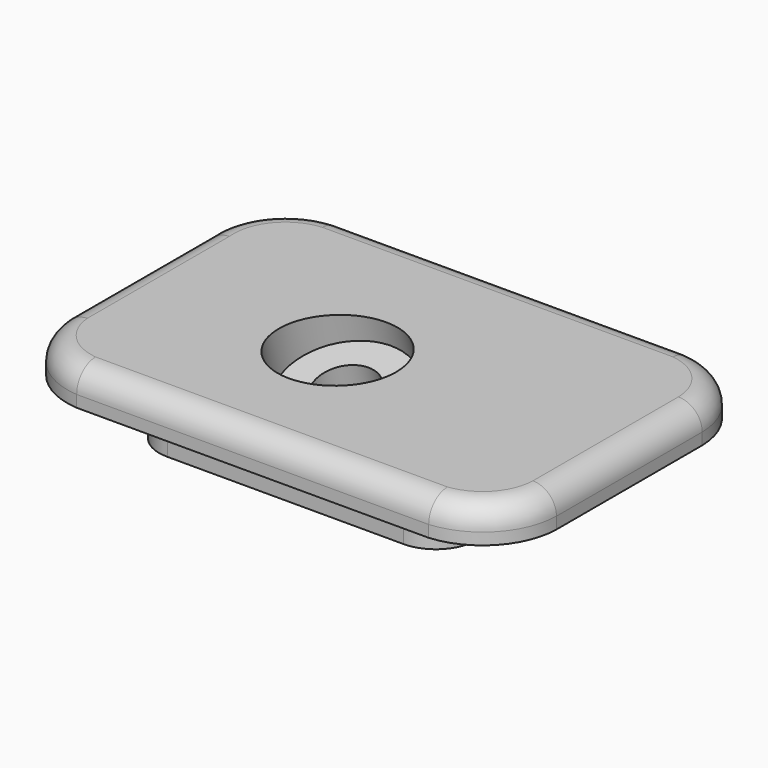
from build123d import *

# Parameters (mm, degrees)
PAD_DEPTH       = 6
PAD001_DEPTH    = 8
FILLET_R        = 4
SKETCH002_R     = 10
POCKET_DEPTH    = 13
SKETCH003_R     = 5
POCKET001_DEPTH = 28


with BuildPart() as part:
    # Sketch → Pad (new body)
    with BuildSketch(Plane.XY):
        with BuildLine():
            ThreePointArc((-41.745088, -16.267645), (-38.019176, -24.312586), (-29.956517, -28))
            Line((30.011514, -28), (-29.956517, -28))
            ThreePointArc((30.011514, -28), (38.300743, -24.027618), (41.782861, -15.520798))
            Line((41.782861, -15.520798), (41.782861, 15.521905))
            ThreePointArc((41.782861, 15.521905), (38.305508, 24.02367), (30.025364, 28))
            Line((-29.988894, 28), (30.025364, 28))
            ThreePointArc((-29.988894, 28), (-38.722289, 23.556252), (-41.745088, 14.235214))
            Line((-41.745088, 14.235214), (-41.745088, -16.267645))
        make_face()
    extrude(amount=PAD_DEPTH)

    # Sketch001 → Pad001 (join)
    with BuildSketch(Plane.XY.offset(-7)):
        with BuildLine():
            Line((0, -21), (-20.122893, -21))
            ThreePointArc((-27, -14.122893), (-24.985742, -18.985742), (-20.122893, -21))
            Line((-27, 0), (-27, -14.122893))
            Line((-27, 0), (-27, 14.122893))
            ThreePointArc((-20.122893, 21), (-24.985742, 18.985742), (-27, 14.122893))
            Line((0, 21), (-20.122893, 21))
            Line((0, 21), (20.122893, 21))
            ThreePointArc((27, 14.122893), (24.985742, 18.985742), (20.122893, 21))
            Line((27, 0), (27, 14.122893))
            Line((27, 0), (27, -14.122893))
            ThreePointArc((20.122893, -21), (24.985742, -18.985742), (27, -14.122893))
            Line((0, -21), (20.122893, -21))
        make_face()
    extrude(amount=PAD001_DEPTH)

    # Fillet
    fillet_edges = [part.edges().sort_by_distance(p)[0] for p in [
        (0.027499, -28, 6),
        (-38.019176, -24.312586, 6),
        (-38.722289, 23.556252, 6),
        (-41.745088, -1.016216, 6),
        (0.018235, 28, 6),
        (38.305508, 24.02367, 6),
        (41.782861, 0.000553, 6),
        (38.300743, -24.027618, 6),
    ]]
    fillet(fillet_edges, radius=FILLET_R)

    # Sketch002 → Pocket (cut)
    with BuildSketch(Plane(origin=(-6, -4, 12), x_dir=(1, 0, 0), z_dir=(0, -0.258819, 0.965926))):
        Circle(SKETCH002_R)
    extrude(amount=-POCKET_DEPTH, mode=Mode.SUBTRACT)

    # Sketch003 → Pocket001 (cut)
    with BuildSketch(Plane(origin=(-6, -4, 12), x_dir=(1, 0, 0), z_dir=(0, -0.258819, 0.965926))):
        Circle(SKETCH003_R)
    extrude(amount=-POCKET001_DEPTH, mode=Mode.SUBTRACT)


solid = part.part
